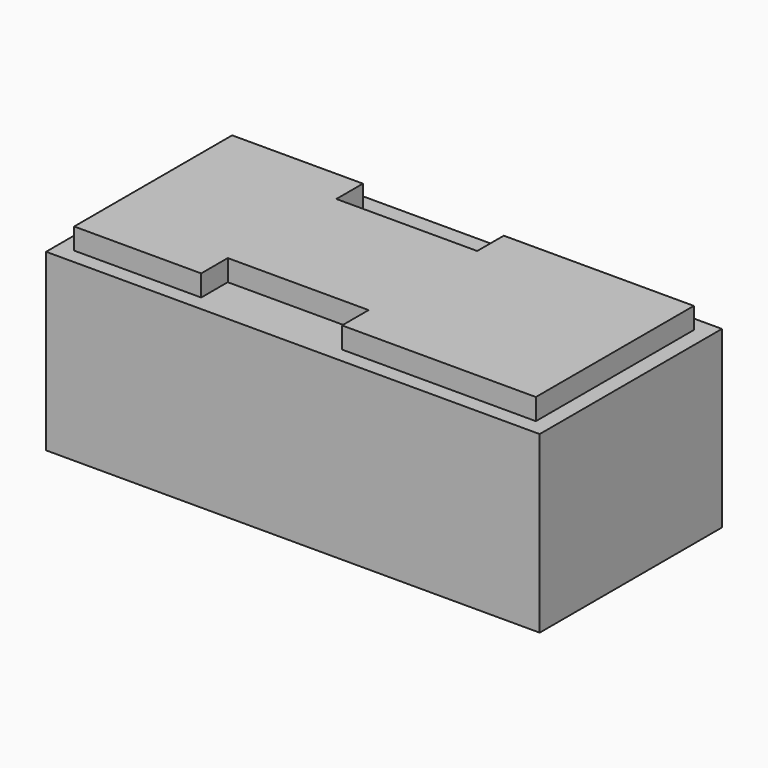
from build123d import *

# Parameters (mm, degrees)
F0_W     = 66.04
F0_H     = 30.48
F0_W_2   = 61.7728
F0_H_2   = 26.416
F1_DEPTH = 23.3934
F2_DEPTH = 26.2382
F3_W     = 18.8468
F3_H     = 2.8448
F4_DEPTH = 4.445
F5_W     = 18.8468
F5_H     = 2.8448
F6_DEPTH = 4.445


with BuildPart() as f1:
    # F0 (on Top) → F1 (new body)
    with BuildSketch(Plane.XY):
        with Locations((5.729598, -1.061104)):
            Rectangle(F0_W, F0_H)
        with Locations((5.729598, -1.061104)):
            Rectangle(F0_W_2, F0_H_2, mode=Mode.SUBTRACT)
    extrude(amount=F1_DEPTH)

    # F0 (on Top) → F2 (join)
    with BuildSketch(Plane.XY):
        with Locations((5.729598, -1.061104)):
            Rectangle(F0_W_2, F0_H_2)
    extrude(amount=F2_DEPTH)

    # F3 (on face) → F4 (cut)
    with BuildSketch(Plane.XZ.offset(14.269104)):
        with Locations((1.259198, 24.8158)):
            Rectangle(F3_W, F3_H)
    extrude(amount=-F4_DEPTH, mode=Mode.SUBTRACT)

    # F5 (on face) → F6 (cut)
    with BuildSketch(Plane(origin=(0, 12.146896, 0), x_dir=(-1, 0, 0), z_dir=(0, 1, 0))):
        with Locations((-1.767198, 24.8158)):
            Rectangle(F5_W, F5_H)
    extrude(amount=-F6_DEPTH, mode=Mode.SUBTRACT)


solid = f1.part
